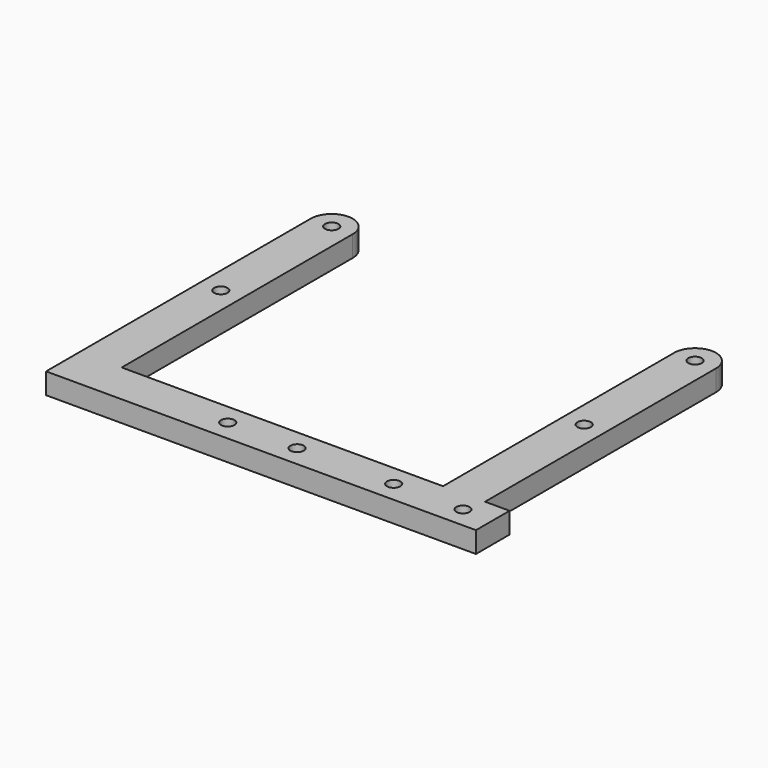
from build123d import *

# Parameters (mm, degrees)
SKETCH_R  = 1.6
PAD_DEPTH = 5


with BuildPart() as part:
    # Sketch → Pad (new body)
    with BuildSketch(Plane.XY):
        with BuildLine():
            ThreePointArc((-38.25, 7.75), (-43.25, 12.75), (-48.25, 7.75))
            Line((-48.25, 7.75), (-48.25, -71))
            Line((-48.25, -71), (54.088146, -71))
            Line((54.088146, -61), (54.088146, -71))
            Line((48.25, -61), (54.088146, -61))
            Line((48.25, 7.75), (48.25, -61))
            ThreePointArc((48.25, 7.75), (43.25, 12.75), (38.25, 7.75))
            Line((38.25, 7.75), (38.25, -61))
            Line((-38.25, -61), (38.25, -61))
            Line((-38.25, 7.75), (-38.25, -61))
        make_face()
        with Locations((-43.25, 7.75)):
            Circle(SKETCH_R, mode=Mode.SUBTRACT)
        with Locations((43.25, 7.75)):
            Circle(SKETCH_R, mode=Mode.SUBTRACT)
        with Locations((-43.25, -25.25)):
            Circle(SKETCH_R, mode=Mode.SUBTRACT)
        with Locations((43.25, -25.25)):
            Circle(SKETCH_R, mode=Mode.SUBTRACT)
        with Locations((7.5, -66)):
            Circle(SKETCH_R, mode=Mode.SUBTRACT)
        with Locations((-9, -66)):
            Circle(SKETCH_R, mode=Mode.SUBTRACT)
        with Locations((30.5, -66)):
            Circle(SKETCH_R, mode=Mode.SUBTRACT)
        with Locations((47, -66)):
            Circle(SKETCH_R, mode=Mode.SUBTRACT)
    extrude(amount=PAD_DEPTH)


solid = part.part
